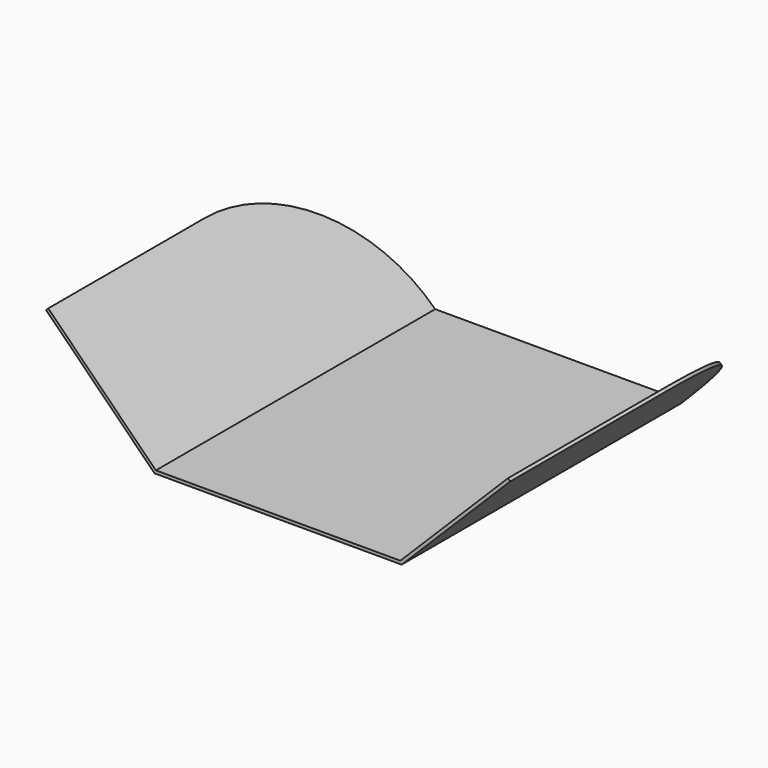
from build123d import *

# Parameters (mm, degrees)
F1_DEPTH = 255
F3_DEPTH = 200
F4_R     = 200
F5_R     = 200


with BuildPart() as f1:
    # F0 (on Front) → F1 (new body)
    with BuildSketch(Plane.XZ):
        Polygon((-161, 0), (0, 0), (161, 0), (302.421356, 141.421356), (299.592929, 144.249783), (159.343146, 4), (0, 4), (-159.343146, 4), (-299.592929, 144.249783), (-302.421356, 141.421356), align=None)
    extrude(amount=F1_DEPTH)

    # F2 (on face) → F3 (join)
    with BuildSketch(Plane(origin=(0, 0, 0), x_dir=(-1, 0, 0), z_dir=(0, 1, 0))):
        Polygon((-159.343146, 4), (-299.592929, 144.249783), (-302.421356, 141.421356), (-161, 0), (161, 0), (302.421356, 141.421356), (299.592929, 144.249783), (159.343146, 4), align=None)
    extrude(amount=F3_DEPTH)

    # F4
    f4_edges = [f1.edges().sort_by_distance(p)[0] for p in [
        (301.007143, 200, 142.83557),
    ]]
    fillet(f4_edges, radius=F4_R)

    # F5
    f5_edges = [f1.edges().sort_by_distance(p)[0] for p in [
        (-301.007143, 200, 142.83557),
    ]]
    fillet(f5_edges, radius=F5_R)


solid = f1.part
